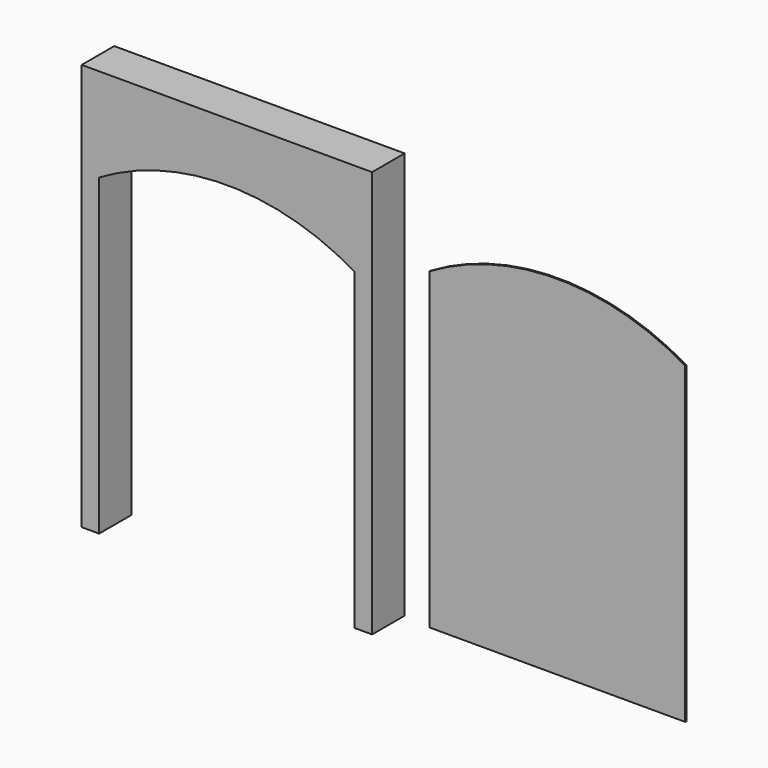
from build123d import *

# Parameters (mm, degrees)
F1_DEPTH = 177.8
F2_W     = 1117.6
F2_H     = 1371.6
F3_DEPTH = 6.35


with BuildPart() as f1:
    # F0 (on Front) → F1 (new body)
    with BuildSketch(Plane.XZ):
        with BuildLine():
            Line((-608.36664, -879.213767), (-532.16664, -879.213767))
            Line((-532.16664, -879.213767), (-532.16664, 492.386233))
            ThreePointArc((-532.16664, 492.386233), (26.63336, 644.786233), (585.43336, 492.386233))
            Line((585.43336, 492.386233), (585.43336, -879.213767))
            Line((585.43336, -879.213767), (661.63336, -879.213767))
            Line((661.63336, -879.213767), (661.63336, 900.954926))
            Line((661.63336, 900.954926), (-608.36664, 900.954926))
            Line((-608.36664, 900.954926), (-608.36664, -879.213767))
        make_face()
    extrude(amount=F1_DEPTH)


with BuildPart() as f3:
    # F2 (on face) → F3 (new body)
    with BuildSketch(Plane.XZ):
        with Locations((1334.834478, -199.114649)):
            Rectangle(F2_W, F2_H)
        with BuildLine():
            ThreePointArc((1893.634478, 486.685351), (1334.834478, 639.085351), (776.034478, 486.685351))
            Line((776.034478, 486.685351), (1893.634478, 486.685351))
        make_face()
    extrude(amount=F3_DEPTH)


solid = Compound([f1.part, f3.part])
